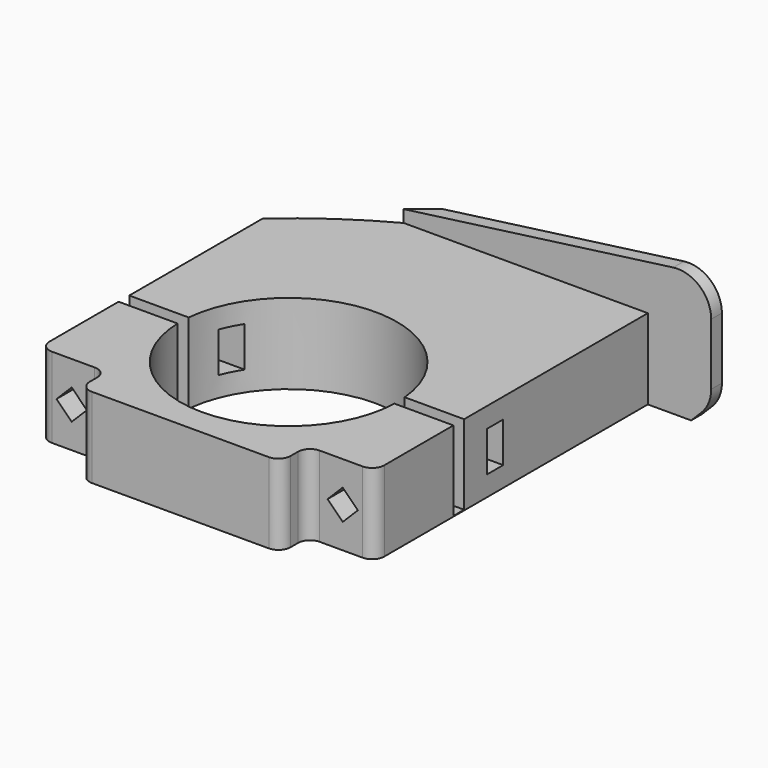
from build123d import *

# Parameters (mm, degrees)
SKETCH_W        = 50
SKETCH_H        = 56
PAD_DEPTH       = 12
SKETCH001_R     = 16.2
POCKET_DEPTH    = 12.001
PAD001_DEPTH    = 2
SKETCH004_W     = 72.31723
SKETCH004_H     = 2
POCKET001_DEPTH = 11.9
SKETCH005_W     = 25.040878
SKETCH005_H     = 17.68627
SKETCH005_W_2   = 12.208063
SKETCH005_H_2   = 50.590956
POCKET002_DEPTH = 5
SKETCH003_W     = 3
SKETCH003_H     = 6
POCKET003_DEPTH = 50.001
POCKET004_DEPTH = 35
FILLET_R        = 1.8
POCKET005_DEPTH = 20.001
CHAMFER_SIZE    = 3
FILLET001_R     = 5
FILLET002_R     = 5


with BuildPart() as part:
    # Sketch → Pad (new body)
    with BuildSketch(Plane.XY):
        Rectangle(SKETCH_W, SKETCH_H)
    extrude(amount=PAD_DEPTH)

    # Sketch001 → Pocket (cut, through all)
    with BuildSketch(Plane.XY.offset(12)):
        with Locations((0, -7.8)):
            Circle(SKETCH001_R)
    extrude(amount=-POCKET_DEPTH, mode=Mode.SUBTRACT)

    # Sketch009 → Pad001 (new body)
    with BuildSketch(Plane(origin=(0, 28, 0), x_dir=(-1, 0, 0), z_dir=(0, 1, 0))):
        Polygon((25, 12), (-34.464275, 20), (-34.464275, 0), (25, 0), align=None)
    extrude(amount=PAD001_DEPTH)

    # Sketch004 → Pocket001 (cut)
    with BuildSketch(Plane.XY.offset(12)):
        with Locations((-0.55157, -7.296643)):
            Rectangle(SKETCH004_W, SKETCH004_H)
    extrude(amount=-POCKET001_DEPTH, mode=Mode.SUBTRACT)

    # Sketch005 → Pocket002 (cut)
    with BuildSketch(Plane.XZ.offset(28)):
        with Locations((-27.520439, 4.662494)):
            Rectangle(SKETCH005_W, SKETCH005_H)
        with Locations((21.104031, -3.872155)):
            Rectangle(SKETCH005_W_2, SKETCH005_H_2)
    extrude(amount=-POCKET002_DEPTH, mode=Mode.SUBTRACT)

    # Sketch003 → Pocket003 (cut, through all)
    with BuildSketch(Plane.YZ.offset(25)):
        with Locations((-0.5, 6)):
            Rectangle(SKETCH003_W, SKETCH003_H)
    extrude(amount=-POCKET003_DEPTH, mode=Mode.SUBTRACT)

    # Sketch002 → Pocket004 (cut)
    with BuildSketch(Plane.XZ.offset(23)):
        Polygon((-22.5, 6), (-20.237258, 8.262742), (-17.974517, 6), (-20.237258, 3.737258), align=None)
        Polygon((17.974517, 6), (20.237258, 8.262742), (22.5, 6), (20.237258, 3.737258), align=None)
    extrude(amount=-POCKET004_DEPTH, mode=Mode.SUBTRACT)

    # Fillet
    fillet_edges = [part.edges().sort_by_distance(p)[0] for p in [
        (15, -28, 6),
        (15, -23, 6),
        (25, -23, 6),
        (-15, -28, 6),
        (-15, -23, 6),
        (-25, -23, 6),
    ]]
    fillet(fillet_edges, radius=FILLET_R)

    # Sketch010 → Pocket005 (cut, through all)
    with BuildSketch(Plane(origin=(0, 0, 0), x_dir=(1, 0, 0), z_dir=(0, 0, -1))):
        with BuildLine():
            ThreePointArc((-35.356641, -7.272038), (-13.77578, -26.704891), (13.751946, -35.956576))
            Line((13.751946, -35.956576), (-64.830559, -41.48777))
            Line((-64.830559, -41.48777), (-35.356641, -7.272038))
        make_face()
    extrude(amount=-POCKET005_DEPTH, mode=Mode.SUBTRACT)

    # Chamfer
    chamfer_edges = [part.edges().sort_by_distance(p)[0] for p in [
        (34.464275, 29, 0),
    ]]
    chamfer(chamfer_edges, length=CHAMFER_SIZE)

    # Fillet001
    fillet001_edges = [part.edges().sort_by_distance(p)[0] for p in [
        (34.464275, 29, 20),
    ]]
    fillet(fillet001_edges, radius=FILLET001_R)

    # Fillet002
    fillet002_edges = [part.edges().sort_by_distance(p)[0] for p in [
        (34.464275, 29, 3),
    ]]
    fillet(fillet002_edges, radius=FILLET002_R)


solid = part.part
